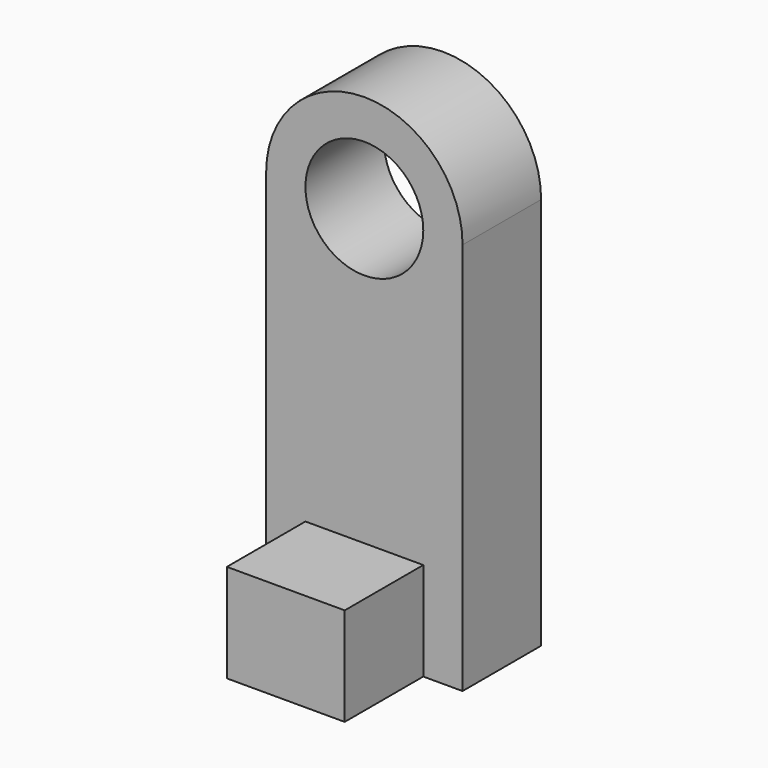
from build123d import *

# Parameters (mm, degrees)
F0_W     = 30
F0_H     = 50
F1_DEPTH = 25
F2_W     = 30
F2_H     = 25
F3_DEPTH = 25
F4_R     = 15
F5_DEPTH = 25


with BuildPart() as f1:
    # F0 (on Top) → F1 (new body)
    with BuildSketch(Plane.XY):
        with Locations((-15, -25)):
            Rectangle(F0_W, F0_H)
    extrude(amount=F1_DEPTH)

    # F2 (on face) → F3 (join)
    with BuildSketch(Plane(origin=(0, 0, 0), x_dir=(-1, 0, 0), z_dir=(0, 1, 0))):
        with BuildLine():
            Line((-10, 100), (-10, 0))
            Line((-10, 0), (0, 0))
            Line((0, 0), (0, 25))
            Line((0, 25), (30, 25))
            Line((30, 25), (30, 0))
            Line((30, 0), (40, 0))
            Line((40, 0), (40, 100))
            ThreePointArc((40, 100), (15, 125), (-10, 100))
        make_face()
        with Locations((15, 12.5)):
            Rectangle(F2_W, F2_H)
    extrude(amount=-F3_DEPTH)

    # F4 (on face) → F5 (cut)
    with BuildSketch(Plane.XZ.offset(25)):
        with Locations((-15, 100)):
            Circle(F4_R)
    extrude(amount=-F5_DEPTH, mode=Mode.SUBTRACT)


solid = f1.part
